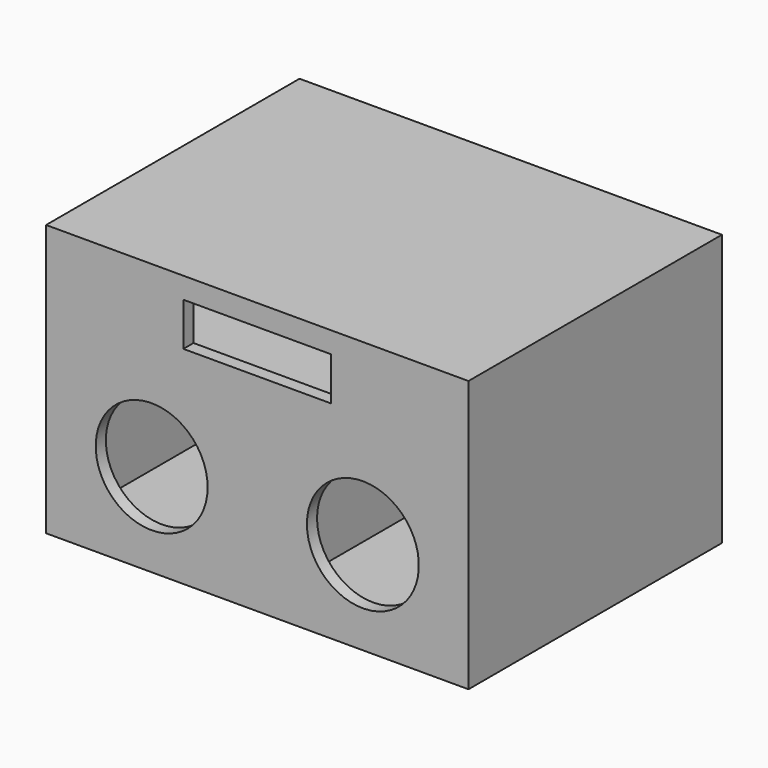
from build123d import *

# Parameters (mm, degrees)
F0_W     = 200
F0_H     = 164
F0_R     = 67
F0_H_2   = 12
F0_R_2   = 53
F1_DEPTH = 12
F2_W     = 12
F2_H     = 69
F2_H_2   = 12
F2_H_3   = 152
F2_W_2   = 6
F3_DEPTH = 276
F4_W     = 200
F4_H     = 257
F5_DEPTH = 12


with BuildPart() as f1:
    # F0 (on Front) → F1 (new body)
    with BuildSketch(Plane.XZ):
        with Locations((0, -46.5)):
            Rectangle(F0_W, F0_H)
        with Locations((0, -40.5)):
            Circle(F0_R, mode=Mode.SUBTRACT)
        Polygon((100, 128.5), (-100, 128.5), (-100, 47.5), (100, 47.5), (100, 67.5), (30, 67.5), (30, 108.5), (100, 108.5), align=None)
        with Locations((0, 41.5)):
            Rectangle(F0_W, F0_H_2)
        with Locations((0, -40.5)):
            Circle(F0_R)
        with Locations((0, -40.5)):
            Circle(F0_R_2, mode=Mode.SUBTRACT)
    extrude(amount=F1_DEPTH)

    # F2 (on face) → F3 (join)
    with BuildSketch(Plane(origin=(0, 0, 0), x_dir=(-1, 0, 0), z_dir=(0, 1, 0))):
        Polygon((100, 128.5), (-100, 128.5), (-100, 116.5), (88, 116.5), (100, 116.5), align=None)
        with Locations((94, 82)):
            Rectangle(F2_W, F2_H)
        with Locations((94, 41.5)):
            Rectangle(F2_W, F2_H_2)
        Polygon((88, 35.5), (88, 47.5), (-100, 47.5), (-100, 35.5), (-94, 35.5), align=None)
        with Locations((94, -40.5)):
            Rectangle(F2_W, F2_H_3)
        Polygon((100, -128.5), (100, -116.5), (88, -116.5), (-94, -116.5), (-100, -116.5), (-100, -128.5), align=None)
        with Locations((-97, -40.5)):
            Rectangle(F2_W_2, F2_H_3)
    extrude(amount=F3_DEPTH)

    # F4 (on face) → F5 (join)
    with BuildSketch(Plane(origin=(0, 276, 0), x_dir=(-1, 0, 0), z_dir=(0, 1, 0))):
        Rectangle(F4_W, F4_H)
    extrude(amount=F5_DEPTH)

    # F6: F1 across face


with BuildPart() as f1_1:
    add(f1.part)
    add(f1.part.mirror(Plane(origin=(100, 139.230769, -27.880342), x_dir=(0, 1, 0), z_dir=(1, 0, 0))))


solid = f1_1.part
